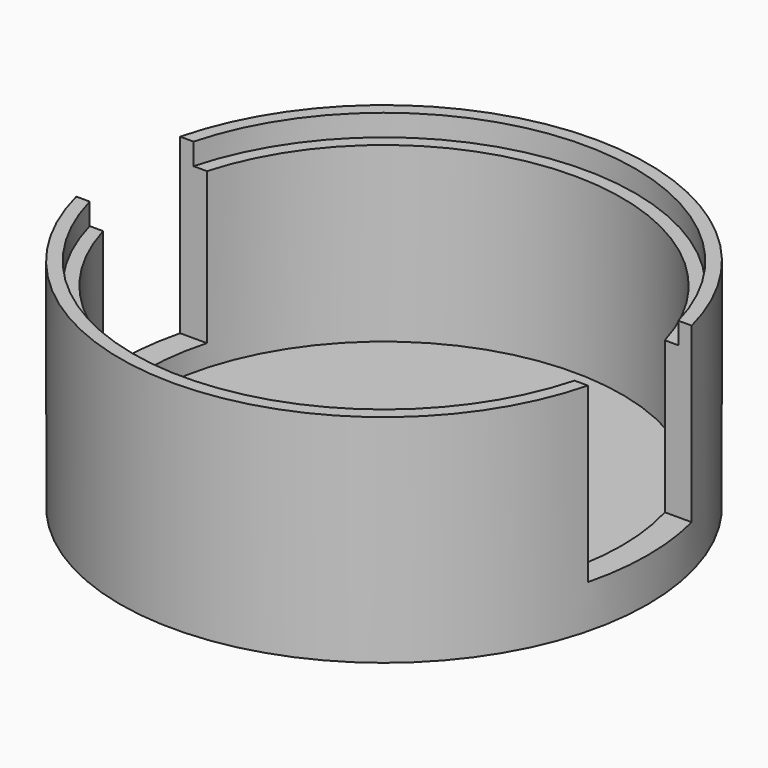
from build123d import *

# Parameters (mm, degrees)
F0_R     = 11
F1_DEPTH = 1
F0_R_2   = 12.2
F2_DEPTH = 10
F3_R     = 11.6
F3_R_2   = 11
F4_DEPTH = 1
F6_DEPTH = 8


with BuildPart() as f1:
    # F0 (on Top) → F1 (new body)
    with BuildSketch(Plane.XY):
        with Locations((-31.5797176751, 0)):
            Circle(F0_R)
    extrude(amount=F1_DEPTH)

    # F0 (on Top) → F2 (join)
    with BuildSketch(Plane.XY):
        with Locations((-31.5797176751, 0)):
            Circle(F0_R_2)
        with Locations((-31.5797176751, 0)):
            Circle(F0_R, mode=Mode.SUBTRACT)
    extrude(amount=F2_DEPTH)

    # F3 (on face) → F4 (cut)
    with BuildSketch(Plane.XY.offset(10)):
        with Locations((-31.5797176751, 0)):
            Circle(F3_R)
        with Locations((-31.5797176751, 0)):
            Circle(F3_R_2, mode=Mode.SUBTRACT)
    extrude(amount=-F4_DEPTH, mode=Mode.SUBTRACT)

    # F5 (on face) → F6 (cut)
    with BuildSketch(Plane.XY.offset(10)):
        with BuildLine():
            ThreePointArc((-19.3797176751, 0), (-19.4737308076, 1.511648757), (-19.7543212758, 3))
            Line((-19.7543212758, 3), (-20.3743618128, 3))
            ThreePointArc((-20.3743618128, 3), (-20.0788018854, 1.5129229983), (-19.9797176751, 0))
            ThreePointArc((-19.9797176751, 0), (-20.0788018854, -1.5129229983), (-20.3743618128, -3))
            Line((-20.3743618128, -3), (-19.7543212758, -3))
            ThreePointArc((-19.7543212758, -3), (-19.4737308076, -1.511648757), (-19.3797176751, 0))
        make_face()
        with BuildLine():
            Line((-20.3743618128, 3), (-42.7850735373, 3))
            ThreePointArc((-42.7850735373, 3), (-43.1797176751, 0), (-42.7850735373, -3))
            Line((-42.7850735373, -3), (-20.3743618128, -3))
            ThreePointArc((-20.3743618128, -3), (-20.0788018854, -1.5129229983), (-19.9797176751, 0))
            ThreePointArc((-19.9797176751, 0), (-20.0788018854, 1.5129229983), (-20.3743618128, 3))
        make_face()
        with BuildLine():
            Line((-42.7850735373, 3), (-43.4051140743, 3))
            ThreePointArc((-43.4051140743, 3), (-43.7797176751, 0), (-43.4051140743, -3))
            Line((-43.4051140743, -3), (-42.7850735373, -3))
            ThreePointArc((-42.7850735373, -3), (-43.1797176751, 0), (-42.7850735373, 3))
        make_face()
    extrude(amount=-F6_DEPTH, mode=Mode.SUBTRACT)


solid = f1.part
